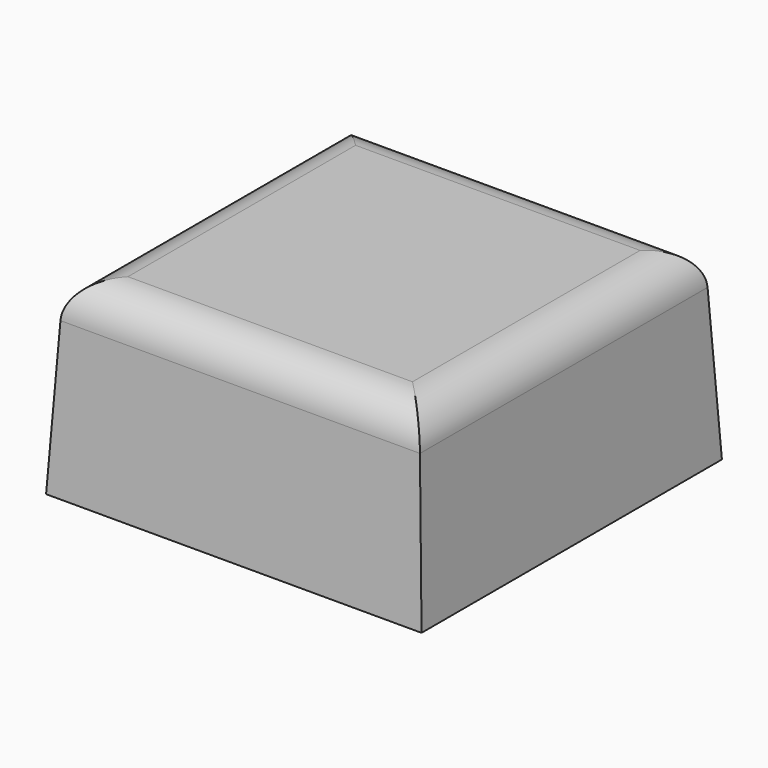
from build123d import *

# Parameters (mm, degrees)
F0_W     = 20
F0_H     = 20
F1_DEPTH = 10
F1_TAPER = 3
F2_R     = 2


with BuildPart() as f1:
    # F0 (on Top) → F1 (new body)
    with BuildSketch(Plane.XY):
        Rectangle(F0_W, F0_H)
    extrude(amount=F1_DEPTH, taper=F1_TAPER)

    # F2
    f2_edges = [f1.edges().sort_by_distance(p)[0] for p in [
        (0, 9.475922, 10),
        (-9.475922, 0, 10),
        (9.475922, 0, 10),
        (0, -9.475922, 10),
    ]]
    fillet(f2_edges, radius=F2_R)


solid = f1.part
